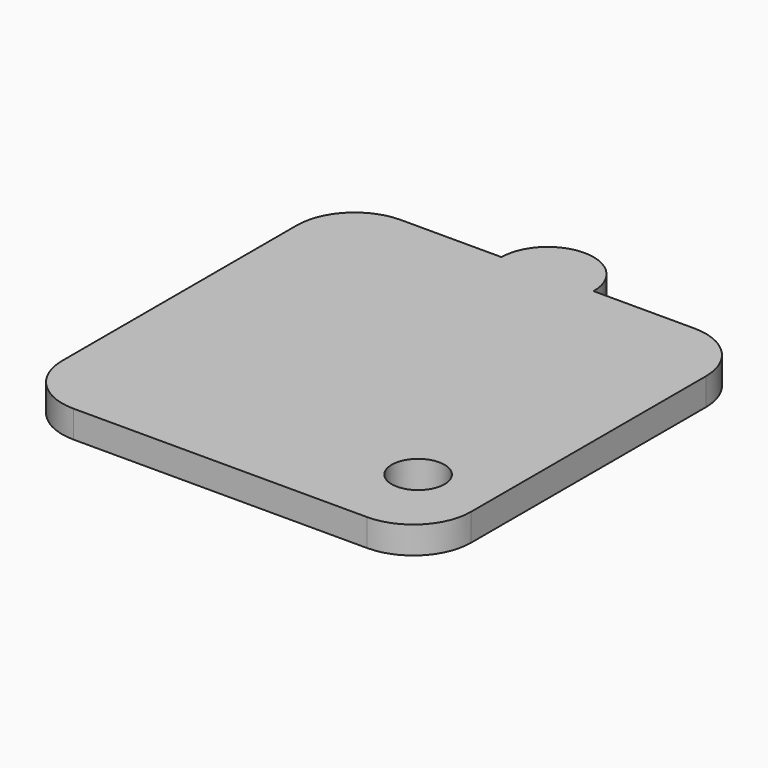
from build123d import *

# Parameters (mm, degrees)
F0_R     = 2.9082675489
F0_W     = 20
F0_H     = 29
F0_R_2   = 0.75
F1_DEPTH = 3


with BuildPart() as f1:
    # F0 (on Top) → F1 (new body)
    with BuildSketch(Plane.XY):
        with BuildLine():
            ThreePointArc((22.5, 16.15), (20.6401280605, 20.6401280605), (16.15, 22.5))
            Line((16.15, 22.5), (5.071, 22.5))
            ThreePointArc((5.071, 22.5), (0, 17.429), (-5.071, 22.5))
            Line((-5.071, 22.5), (-16.15, 22.5))
            ThreePointArc((-16.15, 22.5), (-20.6401280605, 20.6401280605), (-22.5, 16.15))
            Line((-22.5, 16.15), (-22.5, -16.15))
            ThreePointArc((-22.5, -16.15), (-20.6401280605, -20.6401280605), (-16.15, -22.5))
            Line((-16.15, -22.5), (16.15, -22.5))
            ThreePointArc((16.15, -22.5), (20.6401280605, -20.6401280605), (22.5, -16.15))
            Line((22.5, -16.15), (22.5, 16.15))
        make_face()
        with Locations((14.6086653695, -13.5658504441)):
            Circle(F0_R, mode=Mode.SUBTRACT)
        Rectangle(F0_W, F0_H, mode=Mode.SUBTRACT)
        Rectangle(F0_W, F0_H)
        with Locations((8, -8.5)):
            Circle(F0_R_2, mode=Mode.SUBTRACT)
        with Locations((-8, 8.5)):
            Circle(F0_R_2, mode=Mode.SUBTRACT)
        with BuildLine():
            ThreePointArc((-5.071, 22.5), (0, 17.429), (5.071, 22.5))
            Line((5.071, 22.5), (-5.071, 22.5))
        make_face()
        with BuildLine():
            Line((-5.071, 22.5), (5.071, 22.5))
            ThreePointArc((5.071, 22.5), (0, 27.571), (-5.071, 22.5))
        make_face()
        with Locations((-8, 8.5)):
            Circle(F0_R_2)
        with Locations((8, -8.5)):
            Circle(F0_R_2)
    extrude(amount=F1_DEPTH)


solid = f1.part
